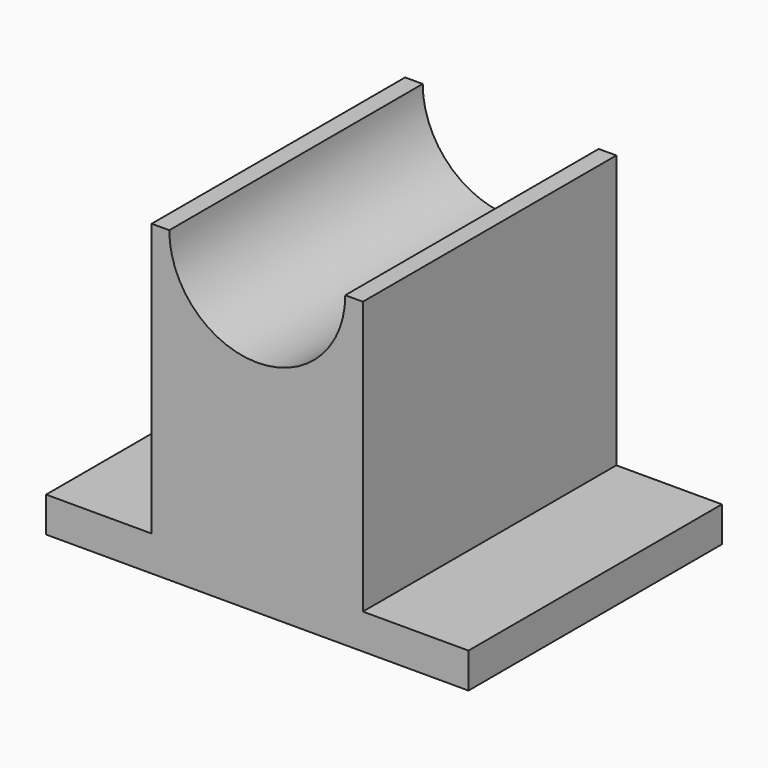
from build123d import *

# Parameters (mm, degrees)
F1_DEPTH = 114.3
F3_DEPTH = 114.301


with BuildPart() as f1:
    # F0 (on Front) → F1 (new body)
    with BuildSketch(Plane.XZ):
        Polygon((-76.2, 0), (0, 0), (76.2, 0), (76.2, 12.7), (38.1, 12.7), (38.1, 111.125), (-38.1, 111.125), (-38.1, 12.7), (-76.2, 12.7), align=None)
    extrude(amount=F1_DEPTH)

    # F2 (on face) → F3 (cut, through all)
    with BuildSketch(Plane.XZ.offset(114.3)):
        with BuildLine():
            Line((31.75, 111.125), (-31.75, 111.125))
            ThreePointArc((-31.75, 111.125), (0, 79.375), (31.75, 111.125))
        make_face()
    extrude(amount=-F3_DEPTH, mode=Mode.SUBTRACT)


solid = f1.part
